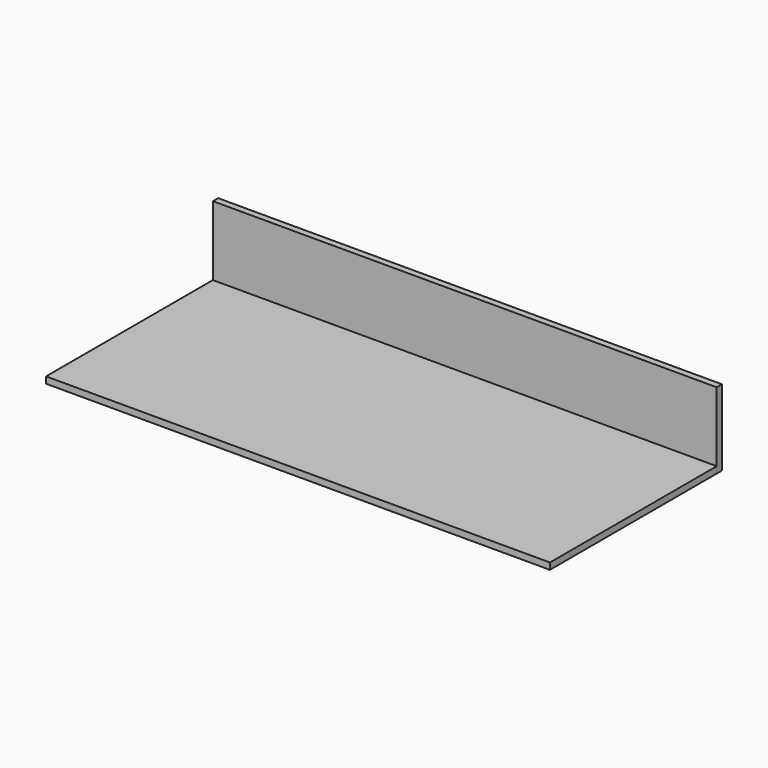
from build123d import *

# Parameters (mm, degrees)
F0_W     = 609.6
F0_H     = 19.05
F1_DEPTH = 736.6
F2_W     = 1473.2
F2_H     = 19.05
F3_DEPTH = 222.25


with BuildPart() as f1:
    # F0 (on Right) → F1 (new body, symmetric)
    with BuildSketch(Plane.YZ):
        with Locations((-304.8, 9.525)):
            Rectangle(F0_W, F0_H)
    extrude(amount=F1_DEPTH, both=True)


with BuildPart() as f3:
    # F2 (on Top) → F3 (new body)
    with BuildSketch(Plane.XY):
        with Locations((0, 9.525)):
            Rectangle(F2_W, F2_H)
    extrude(amount=F3_DEPTH)


solid = Compound([f1.part, f3.part])
